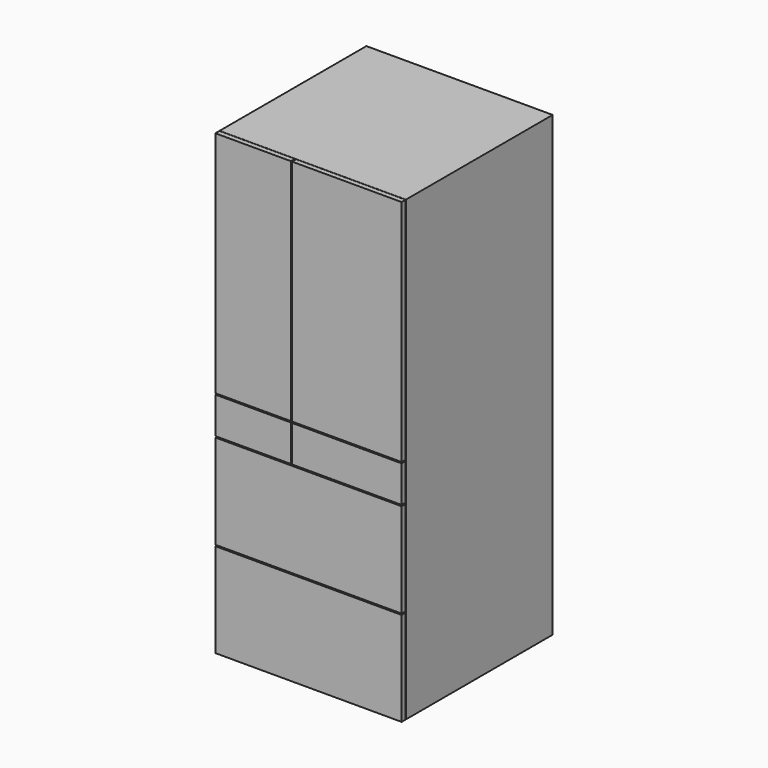
from build123d import *

# Parameters (mm, degrees)
SKETCH_W      = 740
SKETCH_H      = 729
PAD_DEPTH     = 1818
SKETCH001_W   = 730
SKETCH001_H   = 1808
PAD001_DEPTH  = 1
SKETCH002_W   = 299.987062
SKETCH002_H   = 909
SKETCH002_W_2 = 435.012938
PAD002_DEPTH  = 20
SKETCH003_W   = 300
SKETCH003_H   = 145
SKETCH003_W_2 = 435
SKETCH003_W_3 = 740
SKETCH003_H_2 = 375
SKETCH003_H_3 = 374.002362
PAD003_DEPTH  = 20


with BuildPart() as body:
    # Sketch → Pad (new body)
    with BuildSketch(Plane.XY):
        Rectangle(SKETCH_W, SKETCH_H)
    extrude(amount=PAD_DEPTH)

    # Sketch001 (on Face1 of Pad) → Pad001 (join)
    with BuildSketch(Plane.XZ.offset(364.5)):
        with Locations((0, 909)):
            Rectangle(SKETCH001_W, SKETCH001_H)
    extrude(amount=PAD001_DEPTH)

    # Sketch002 (on Face11 of Pad001) → Pad002 (join)
    with BuildSketch(Plane.XZ.offset(365.5)):
        with Locations((-220.006469, 1363.5)):
            Rectangle(SKETCH002_W, SKETCH002_H)
        with Locations((152.493531, 1363.5)):
            Rectangle(SKETCH002_W_2, SKETCH002_H)
    extrude(amount=PAD002_DEPTH)

    # Sketch003 (on Face22 of Pad002) → Pad003 (join)
    with BuildSketch(Plane.XZ.offset(385.5)):
        with Locations((-220, 831.502362)):
            Rectangle(SKETCH003_W, SKETCH003_H)
        with Locations((152.5, 831.502362)):
            Rectangle(SKETCH003_W_2, SKETCH003_H)
        with Locations((0, 566.502362)):
            Rectangle(SKETCH003_W_3, SKETCH003_H_2)
        with Locations((0, 187.001181)):
            Rectangle(SKETCH003_W_3, SKETCH003_H_3)
    extrude(amount=-PAD003_DEPTH)


with BuildPart() as refrigerator_clone:
    # Clone base: copy of Body
    add(body.part)


solid = Compound([body.part, refrigerator_clone.part])
